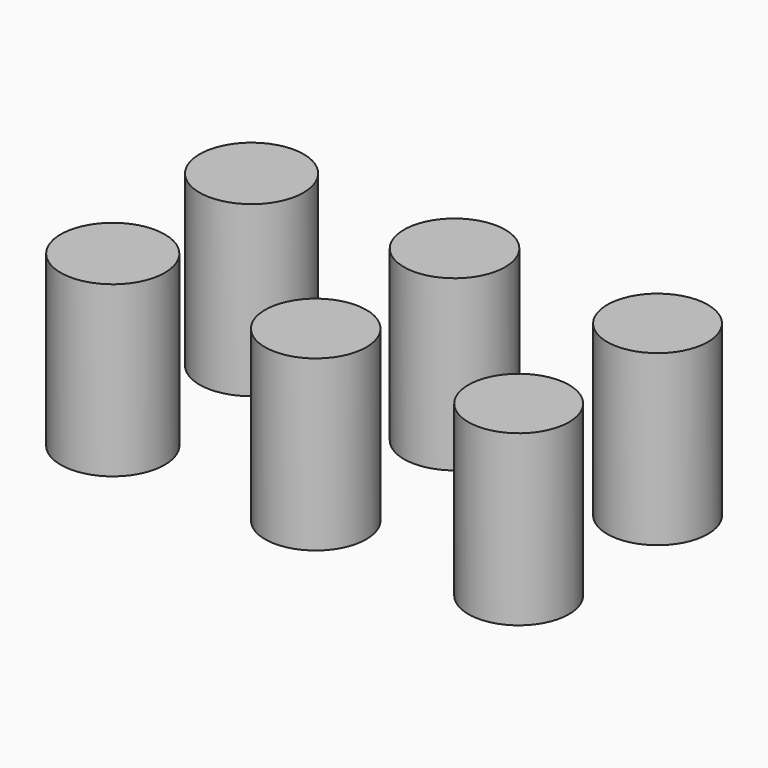
from build123d import *

# Parameters (mm, degrees)
F0_R     = 7.563231
F0_R_2   = 7.601846
F0_R_3   = 7.817103
F1_DEPTH = 25.4


with BuildPart() as f1:
    # F0 (on Top) → F1 (new body)
    with BuildSketch(Plane.XY):
        with Locations((30.487562, -13.034533)):
            Circle(F0_R)
        with Locations((0, -13.034533)):
            Circle(F0_R_2)
        with Locations((-30.487549, -13.034533)):
            Circle(F0_R_3)
        with Locations((-30.487549, 13.034533)):
            Circle(F0_R_3)
        with Locations((0, 13.034533)):
            Circle(F0_R_2)
        with Locations((30.487562, 13.034533)):
            Circle(F0_R)
    extrude(amount=F1_DEPTH)


solid = f1.part
